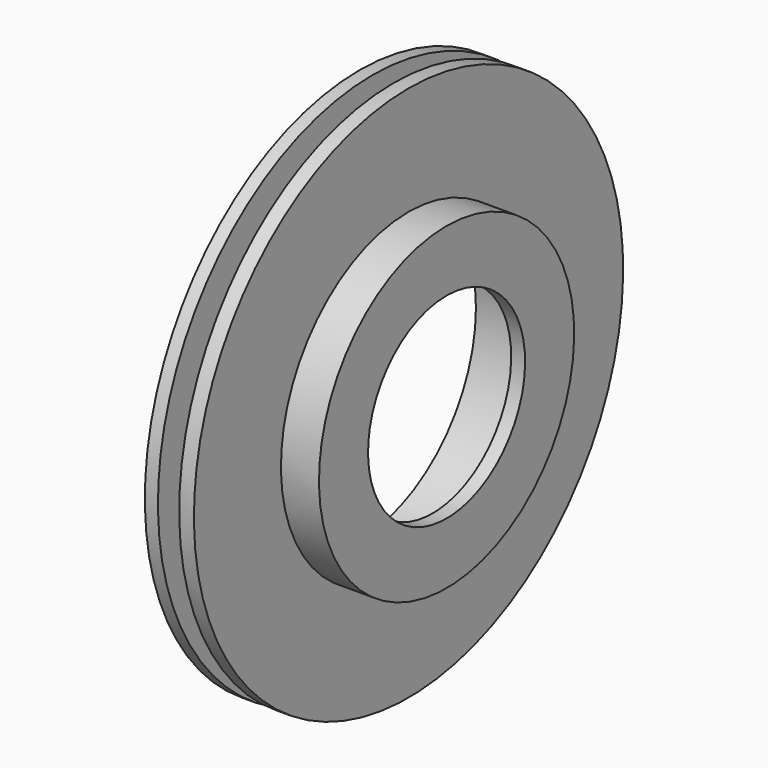
from build123d import *

# Parameters (mm, degrees)
F0_W   = 8
F0_H   = 8.5
F0_W_2 = 13
F0_H_2 = 11.5
F0_W_3 = 9


with BuildPart() as f1:
    # F0 (on Front) → F1 (revolve)
    with BuildSketch(Plane.XZ):
        Polygon((0, 164), (0, 97.5), (8, 97.5), (8, 109), (8, 164), align=None)
        with Locations((4, 93.25)):
            Rectangle(F0_W, F0_H)
        Polygon((21, 109), (21, 97.5), (30, 97.5), (30, 164), (21, 164), align=None)
        Polygon((30, 97.5), (30, 89), (44.75, 89), (44.75, 60), (53.25, 60), (53.25, 97.5), align=None)
        with Locations((14.5, 103.25)):
            Rectangle(F0_W_2, F0_H_2)
        with Locations((14.5, 93.25)):
            Rectangle(F0_W_2, F0_H)
        with Locations((25.5, 93.25)):
            Rectangle(F0_W_3, F0_H)
    revolve(axis=Axis((49, 0, 0), (1, 0, 0)))


solid = f1.part
